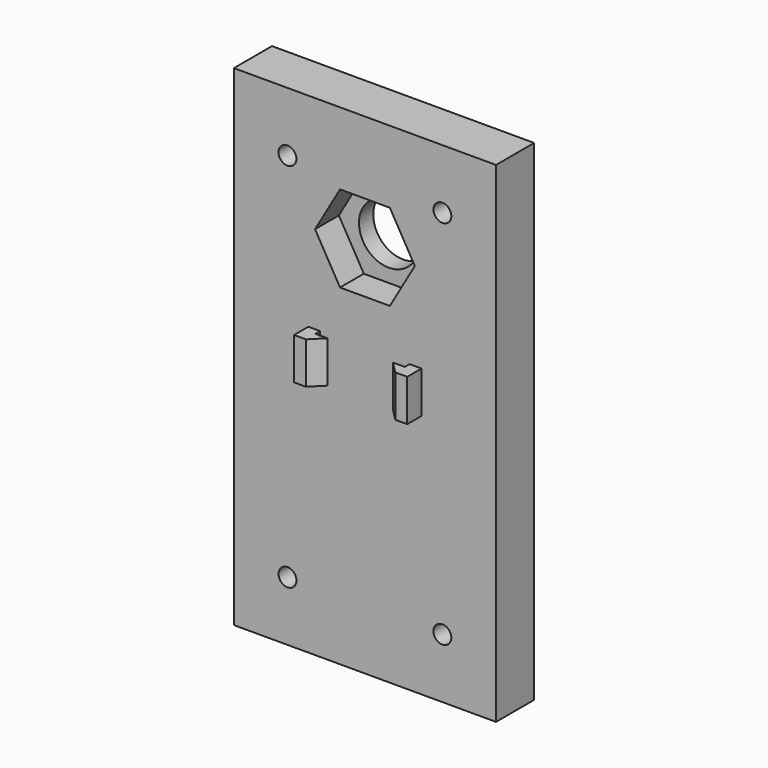
from build123d import *

# Parameters (mm, degrees)
F0_W     = 44
F0_H     = 82.3
F0_R     = 1.5
F0_R_2   = 5
F1_DEPTH = 3
F2_DEPTH = 5
F3_SIZE  = 1.5
F4_W     = 15
F4_H     = 2
F5_DEPTH = 7


with BuildPart() as f1:
    # F0 (on Front) → F1 (new body)
    with BuildSketch(Plane.XZ):
        Rectangle(F0_W, F0_H)
        with Locations((-13, -31.15)):
            Circle(F0_R, mode=Mode.SUBTRACT)
        with Locations((13, -31.15)):
            Circle(F0_R, mode=Mode.SUBTRACT)
        with Locations((-13, 31.15)):
            Circle(F0_R, mode=Mode.SUBTRACT)
        Polygon((-4.185789, 14.525), (-8.371579, 21.775), (-4.185789, 29.025), (4.185789, 29.025), (8.371579, 21.775), (4.185789, 14.525), align=None, mode=Mode.SUBTRACT)
        with Locations((13, 31.15)):
            Circle(F0_R, mode=Mode.SUBTRACT)
        Polygon((-4.185789, 29.025), (-8.371579, 21.775), (-4.185789, 14.525), (4.185789, 14.525), (8.371579, 21.775), (4.185789, 29.025), align=None)
        with Locations((0, 21.775)):
            Circle(F0_R_2, mode=Mode.SUBTRACT)
    extrude(amount=-F1_DEPTH)

    # F0 (on Front) → F2 (join)
    with BuildSketch(Plane.XZ):
        Rectangle(F0_W, F0_H)
        with Locations((-13, -31.15)):
            Circle(F0_R, mode=Mode.SUBTRACT)
        with Locations((13, -31.15)):
            Circle(F0_R, mode=Mode.SUBTRACT)
        with Locations((-13, 31.15)):
            Circle(F0_R, mode=Mode.SUBTRACT)
        Polygon((-4.185789, 14.525), (-8.371579, 21.775), (-4.185789, 29.025), (4.185789, 29.025), (8.371579, 21.775), (4.185789, 14.525), align=None, mode=Mode.SUBTRACT)
        with Locations((13, 31.15)):
            Circle(F0_R, mode=Mode.SUBTRACT)
    extrude(amount=F2_DEPTH)

    # F3
    f3_edges = [f1.edges().sort_by_distance(p)[0] for p in [
        (11.5, 3, 31.15),
        (-14.5, 3, 31.15),
        (-14.5, 3, -31.15),
        (11.5, 3, -31.15),
    ]]
    chamfer(f3_edges, length=F3_SIZE)


with BuildPart() as f5:
    # F4 (on Top) → F5 (new body)
    with BuildSketch(Plane.XY):
        Polygon((-7.5, -1), (-7.5, 1), (-9.5, 1), (-9.5, -8), (-7.5, -8), (-7.5, -6), align=None)
        Polygon((-5.5, -6), (-7.5, -6), (-7.5, -8), align=None)
        Rectangle(F4_W, F4_H)
        Polygon((9.5, 1), (7.5, 1), (7.5, -1), (7.5, -6), (7.5, -8), (9.5, -8), align=None)
        Polygon((7.5, -8), (7.5, -6), (5.5, -6), align=None)
    extrude(amount=F5_DEPTH)


solid = Compound([f1.part, f5.part])
